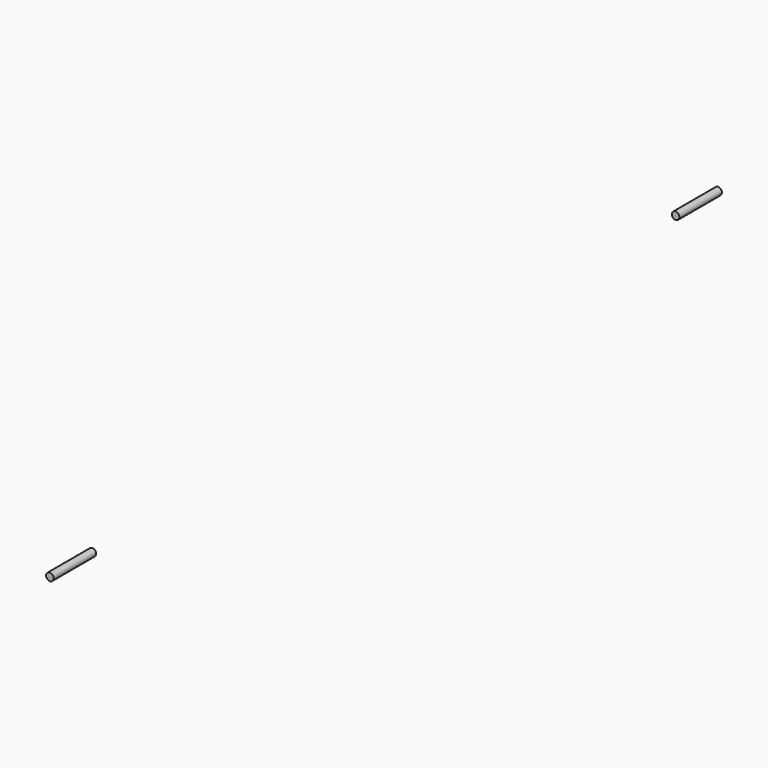
from build123d import *

# Parameters (mm, degrees)
RECTANGLE_W      = 960
RECTANGLE_H      = 960
EXTRUDE019_DEPTH = 30
SKETCH018_R      = 5
EXTRUDE018_DEPTH = 550


with BuildPart() as extrude019:
    # Rectangle → Extrude019 (new body)
    with BuildSketch(Plane(origin=(10, -480, -480), x_dir=(0, 1, 0), z_dir=(1, 0, 0))):
        with Locations((480, 480)):
            Rectangle(RECTANGLE_W, RECTANGLE_H)
    extrude(amount=-EXTRUDE019_DEPTH)


with BuildPart() as cut:
    # Sketch018 → Extrude018 (new body, symmetric)
    with BuildSketch(Plane.XZ):
        Circle(SKETCH018_R)
    extrude(amount=EXTRUDE018_DEPTH, both=True)

    # Cut: cut Extrude019
    add(extrude019.part, mode=Mode.SUBTRACT)


solid = cut.part
